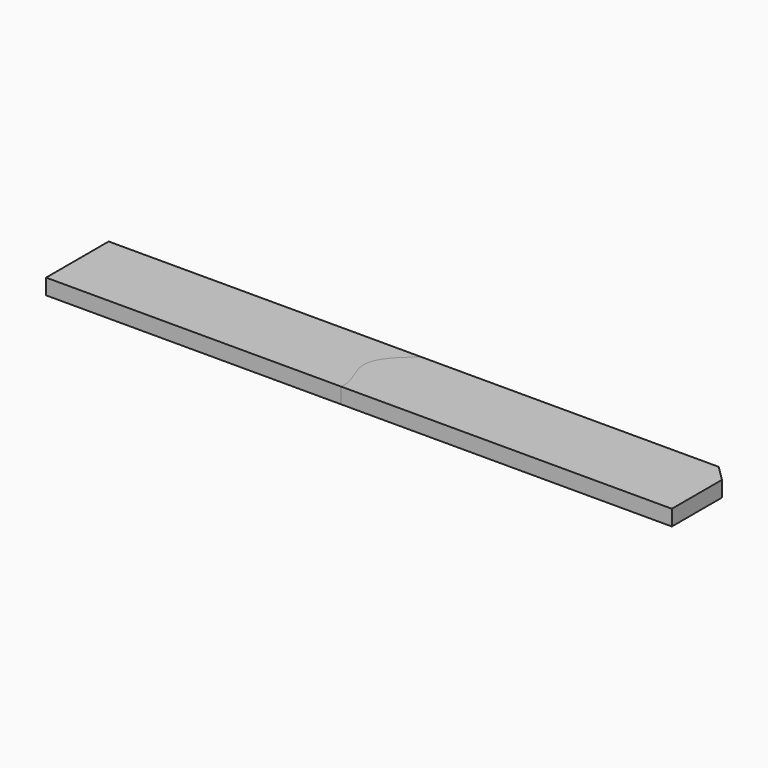
from build123d import *

# Parameters (mm, degrees)
F1_DEPTH = 1
F2_DEPTH = 1
F3_SIZE  = 1


with BuildPart() as f1:
    # F0 (on Top) → F1 (new body)
    with BuildSketch(Plane.XY):
        with BuildLine():
            Line((-20, -2.5), (-1.1477398475, -2.5))
            add(Edge.make_bspline(
                [(0, 2.5), (-1, 1.7263505199), (-2.4792103177, 0.1212219451), (-1, -1.6790880909), (-1.1477398475, -2.5)],
                knots=[0, 0, 0, 0, 0.5212420535, 1, 1, 1, 1], degree=3))
            Line((0, 2.5), (-20, 2.5))
            Line((-20, 2.5), (-20, -2.5))
        make_face()
    extrude(amount=F1_DEPTH)


with BuildPart() as f2:
    # F0 (on Top) → F2 (new body)
    with BuildSketch(Plane.XY):
        with BuildLine():
            Line((-1.1477398475, -2.5), (20, -2.5))
            Line((20, -2.5), (20, 2.5))
            Line((20, 2.5), (0, 2.5))
            add(Edge.make_bspline(
                [(0, 2.5), (-1, 1.7263505199), (-2.4792103177, 0.1212219451), (-1, -1.6790880909), (-1.1477398475, -2.5)],
                knots=[0, 0, 0, 0, 0.5212420535, 1, 1, 1, 1], degree=3))
        make_face()
    extrude(amount=F2_DEPTH)

    # F3
    f3_edges = [f2.edges().sort_by_distance(p)[0] for p in [
        (20, 2.5, 0.5),
    ]]
    chamfer(f3_edges, length=F3_SIZE)


solid = Compound([f1.part, f2.part])
